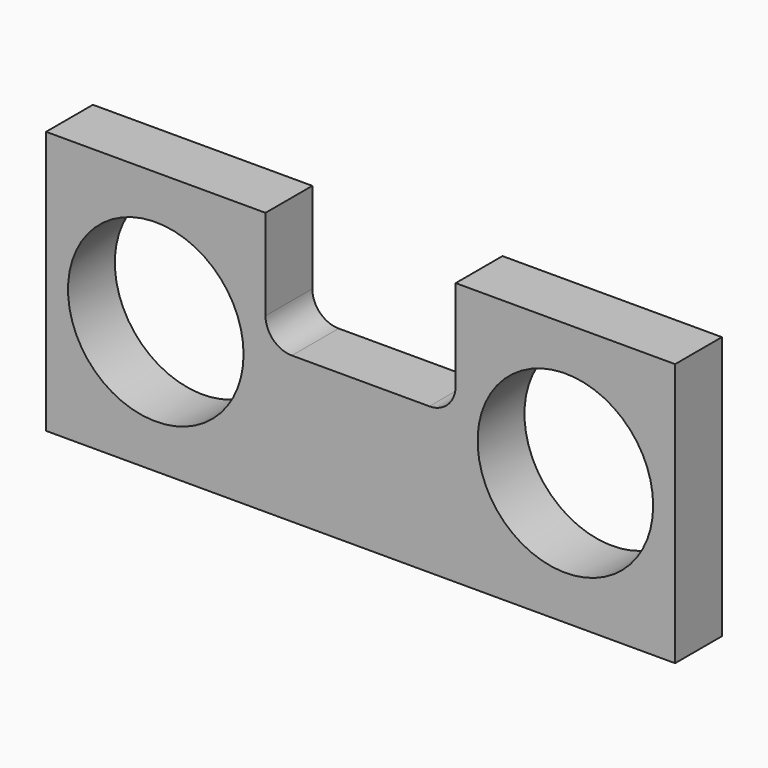
from build123d import *

# Parameters (mm, degrees)
F0_W     = 273.05
F0_H     = 114.3
F0_R     = 38.1
F1_DEPTH = 25.4
F3_DEPTH = 25.4


with BuildPart() as f1:
    # F0 (on Front) → F1 (new body)
    with BuildSketch(Plane.XZ):
        with Locations((136.525, 57.15)):
            Rectangle(F0_W, F0_H)
        with Locations((47.625, 57.15)):
            Circle(F0_R, mode=Mode.SUBTRACT)
        with Locations((225.425, 57.15)):
            Circle(F0_R, mode=Mode.SUBTRACT)
    extrude(amount=F1_DEPTH)

    # F2 (on face) → F3 (cut)
    with BuildSketch(Plane.XZ.offset(25.4)):
        with BuildLine():
            Line((177.8, 114.3), (95.25, 114.3))
            Line((95.25, 114.3), (95.25, 74.93))
            ThreePointArc((95.25, 74.93), (98.597769, 66.847769), (106.68, 63.5))
            Line((106.68, 63.5), (166.37, 63.5))
            ThreePointArc((166.37, 63.5), (174.452231, 66.847769), (177.8, 74.93))
            Line((177.8, 74.93), (177.8, 114.3))
        make_face()
    extrude(amount=-F3_DEPTH, mode=Mode.SUBTRACT)


solid = f1.part
